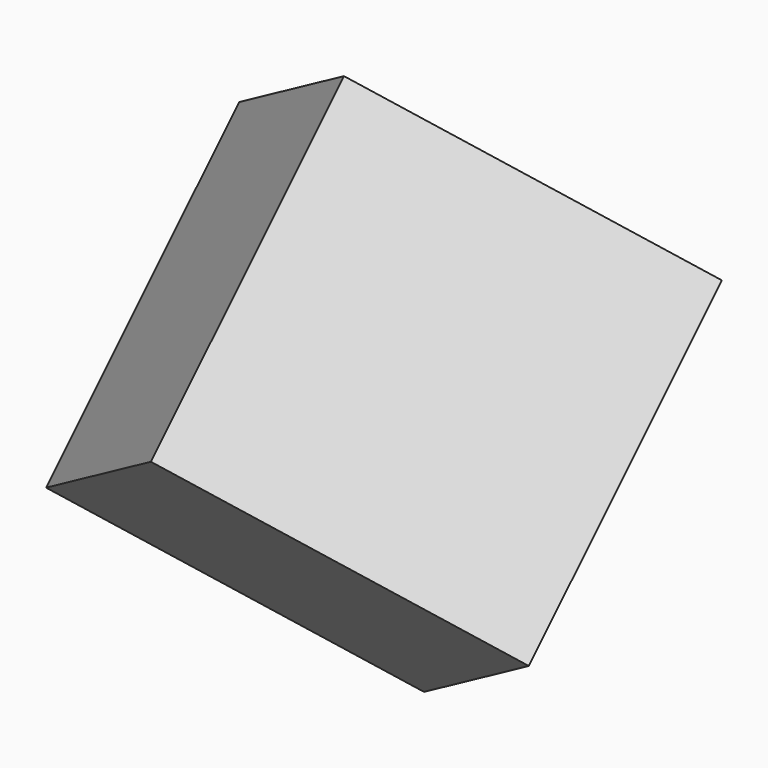
from build123d import *

# Parameters (mm, degrees)
F1_W     = 50
F1_H     = 50
F2_DEPTH = 25
F4_ANGLE = 45
F6_ANGLE = 45


with BuildPart() as f2:
    # F1 (on Top) → F2 (new body, symmetric)
    with BuildSketch(Plane.XY):
        Rectangle(F1_W, F1_H)
    extrude(amount=F2_DEPTH, both=True)


with BuildPart() as f2_1:
    # F4: moved
    add(f2.part.rotate(Axis((0, 0, 0), (0, 1, 0)), F4_ANGLE))


with BuildPart() as f2_2:
    # F6: moved
    add(f2_1.part.rotate(Axis((0, 0, 0), (1, 0, 0)), F6_ANGLE))


solid = f2_2.part
